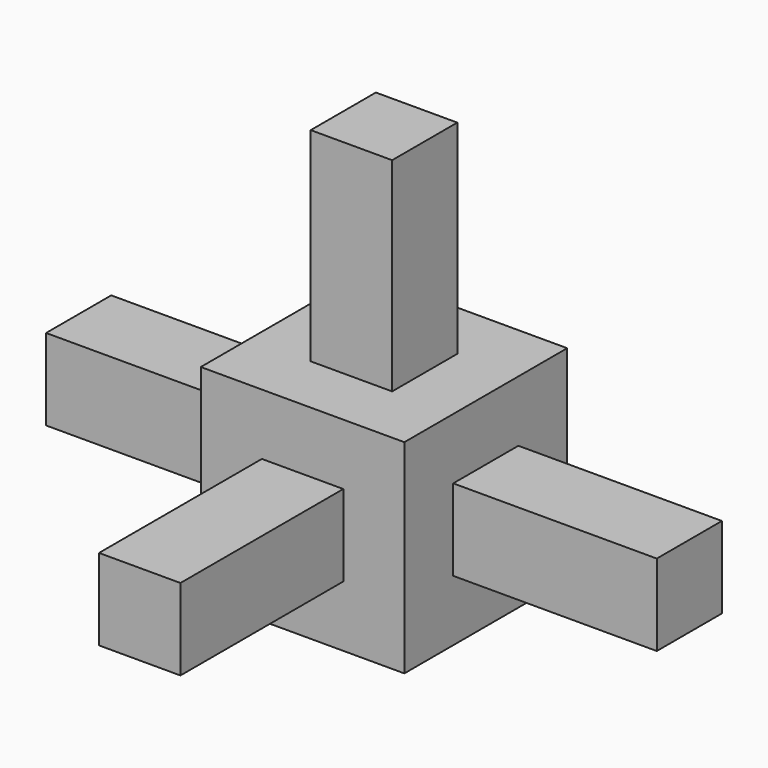
from build123d import *

# Parameters (mm, degrees)
F0_W     = 10
F0_H     = 10
F1_DEPTH = 5
F2_W     = 4
F2_H     = 4
F3_DEPTH = 15
F4_W     = 4
F4_H     = 4
F5_DEPTH = 15
F6_W     = 4
F6_H     = 4
F7_DEPTH = 15
F8_DEPTH = 15


with BuildPart() as f1:
    # F0 (on Top) → F1 (new body, symmetric)
    with BuildSketch(Plane.XY):
        Rectangle(F0_W, F0_H)
    extrude(amount=F1_DEPTH, both=True)

    # F2 (on Top) → F3 (join)
    with BuildSketch(Plane.XY):
        Rectangle(F2_W, F2_H)
    extrude(amount=F3_DEPTH)

    # F4 (on Front) → F5 (join)
    with BuildSketch(Plane.XZ):
        Rectangle(F4_W, F4_H)
    extrude(amount=F5_DEPTH)

    # F6 (on Right) → F7 (join)
    with BuildSketch(Plane.YZ):
        Rectangle(F6_W, F6_H)
    extrude(amount=F7_DEPTH)

    # F6 (on Right) → F8 (join)
    with BuildSketch(Plane.YZ):
        Rectangle(F6_W, F6_H)
    extrude(amount=-F8_DEPTH)


solid = f1.part
